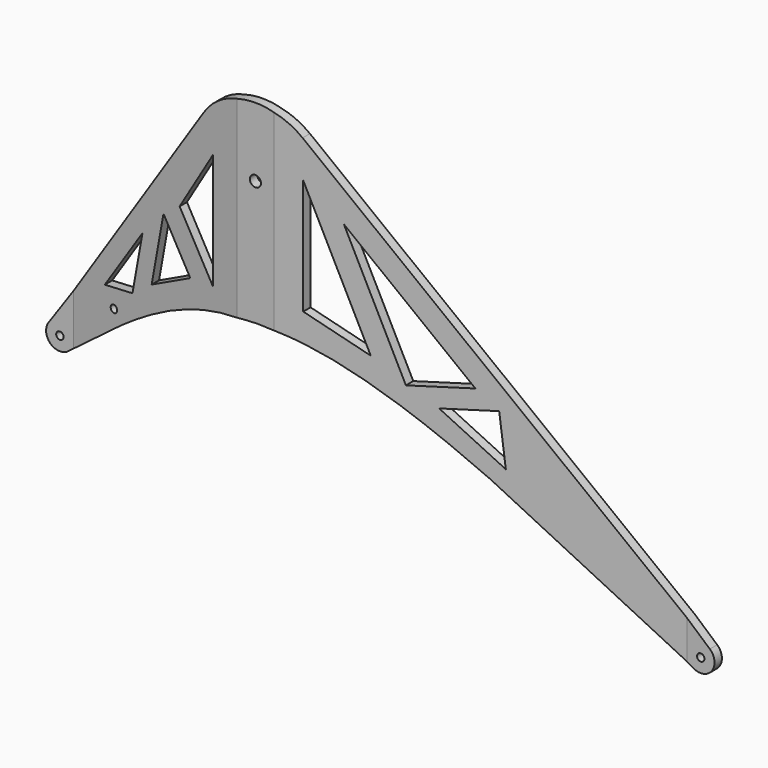
from build123d import *

# Parameters (mm, degrees)
F1_W     = 30
F1_H     = 10
F2_DEPTH = 340
F3_DEPTH = 100
F5_DEPTH = 76
F6_R     = 4
F6_R_2   = 6
F7_DEPTH = 66


with BuildPart() as f2:
    # F1 (on Top) → F2 (new body)
    with BuildSketch(Plane.XY):
        Polygon((0, 0), (-20, 0), (-20, -10), (20, -10), (20, 0), align=None)
        Polygon((-20, -10), (-20, 0), (-223.64854, 33), (-223.64854, 23), align=None)
        with Locations((-238.64854, 28)):
            Rectangle(F1_W, F1_H)
        Polygon((442.00493, 33), (20, 0), (20, -10), (442.00493, 23), align=None)
        with Locations((457.00493, 28)):
            Rectangle(F1_W, F1_H)
    extrude(amount=-F2_DEPTH)

    # F1 (on Top) → F3 (join)
    with BuildSketch(Plane.XY):
        Polygon((0, 0), (-20, 0), (-20, -10), (20, -10), (20, 0), align=None)
        Polygon((-20, -10), (-20, 0), (-223.64854, 33), (-223.64854, 23), align=None)
        with Locations((-238.64854, 28)):
            Rectangle(F1_W, F1_H)
        Polygon((442.00493, 33), (20, 0), (20, -10), (442.00493, 23), align=None)
        with Locations((457.00493, 28)):
            Rectangle(F1_W, F1_H)
    extrude(amount=F3_DEPTH)

    # F4 (on Front) → F5 (intersect, symmetric)
    with BuildSketch(Plane.XZ):
        with BuildLine():
            ThreePointArc((-250.9718022583, -230.0965111685), (-249.006915225, -249.4976876834), (-229.5356153331, -250.563010045))
            ThreePointArc((-229.5356153331, -250.563010045), (-225.2006047987, -245.2933166844), (-223.6485386505, -238.6485386505))
            ThreePointArc((-223.6485386505, -238.6485386505), (-234.1679669301, -224.3333552056), (-250.9718022583, -230.0965111685))
        make_face()
        with BuildLine():
            add(Edge.make_bspline(
                [(-229.5356153331, -250.563010045), (-208.7207010553, -234.6424785008), (-187.0701685552, -217.0301430269), (-164.0481391717, -200.4741451059)],
                knots=[0, 0, 0, 0, 0.1373195068, 0.1373195068, 0.1373195068, 0.1373195068], degree=3))
            Line((-229.5356153331, -250.563010045), (-164.0481391717, -200.4741451059))
        make_face()
        with BuildLine():
            ThreePointArc((-223.6485386505, -238.6485386505), (-225.2006047987, -245.2933166844), (-229.5356153331, -250.563010045))
            add(Edge.make_bspline(
                [(-229.5356153331, -250.563010045), (-208.7207010553, -234.6424785008), (-187.0701685552, -217.0301430269), (-164.0481391717, -200.4741451059)],
                knots=[0, 0, 0, 0, 0.1373195068, 0.1373195068, 0.1373195068, 0.1373195068], degree=3))
            Line((-164.0481391717, -200.4741451059), (0, -75))
            ThreePointArc((0, -75), (-66.4530293795, -34.7706037666), (-61.6163187638, 42.7601363655))
            Line((-61.6163187638, 42.7601363655), (-250.9718022583, -230.0965111685))
            ThreePointArc((-250.9718022583, -230.0965111685), (-234.1679669301, -224.3333552056), (-223.6485386505, -238.6485386505))
        make_face()
        with BuildLine():
            Line((0, -75), (-164.0481391717, -200.4741451059))
            add(Edge.make_bspline(
                [(-164.0481391717, -200.4741451059), (-116.7152354778, -166.4352929221), (-4.1014041633, -103.751655246), (155.4809175381, -168.4276528716), (240.7432263876, -213.1721002441)],
                knots=[0.1373195068, 0.1373195068, 0.1373195068, 0.1373195068, 0.4196460942, 0.7357326781, 0.7357326781, 0.7357326781, 0.7357326781], degree=3))
            Line((240.7432263876, -213.1721002441), (0, -75))
        make_face()
        with BuildLine():
            ThreePointArc((49.3759786376, 56.4536334843), (-9.1833788682, 74.4356470555), (-61.6163187638, 42.7601363655))
            ThreePointArc((-61.6163187638, 42.7601363655), (-66.4530293795, -34.7706037666), (0, -75))
            ThreePointArc((0, -75), (53.033008589, -53.033008589), (75, 0))
            ThreePointArc((75, 0), (68.2942105812, 30.9983999763), (49.3759786376, 56.4536334843))
        make_face()
        with BuildLine():
            ThreePointArc((75, 0), (53.033008589, -53.033008589), (0, -75))
            Line((0, -75), (240.7432263876, -213.1721002441))
            add(Edge.make_bspline(
                [(240.7432263876, -213.1721002441), (312.0276249141, -250.5811390256), (383.9898125383, -295.3870059685), (449.5382273905, -333.0078449167)],
                knots=[0.7357326781, 0.7357326781, 0.7357326781, 0.7357326781, 1, 1, 1, 1], degree=3))
            ThreePointArc((449.5382273905, -333.0078449167), (444.7952538382, -311.2848606652), (466.8801220688, -308.7075678715))
            Line((466.8801220688, -308.7075678715), (49.3759786376, 56.4536334843))
            ThreePointArc((49.3759786376, 56.4536334843), (68.2942105812, 30.9983999763), (75, 0))
        make_face()
        with BuildLine():
            add(Edge.make_bspline(
                [(240.7432263876, -213.1721002441), (312.0276249141, -250.5811390256), (383.9898125383, -295.3870059685), (449.5382273905, -333.0078449167)],
                knots=[0.7357326781, 0.7357326781, 0.7357326781, 0.7357326781, 1, 1, 1, 1], degree=3))
            Line((240.7432263876, -213.1721002441), (449.5382273905, -333.0078449167))
        make_face()
        with BuildLine():
            ThreePointArc((466.8801220688, -308.7075678715), (444.7952538382, -311.2848606652), (449.5382273905, -333.0078449167))
            ThreePointArc((449.5382273905, -333.0078449167), (464.521558007, -332.979057912), (472.0049255088, -319.9982938402))
            ThreePointArc((472.0049255088, -319.9982938402), (470.6637678536, -313.7986143485), (466.8801220688, -308.7075678715))
        make_face()
    extrude(amount=F5_DEPTH, both=True, mode=Mode.INTERSECT)

    # F6 (on face) → F7 (cut, symmetric)
    with BuildSketch(Plane.XZ.offset(10)):
        Polygon((-50, -118.8666767037), (-50, 6.8798678522), (-91.5673471808, -58.5868135927), align=None)
        Polygon((-126.4676634488, -146.9804479722), (-78.2616292159, -121.9207695), (-111.7079214913, -73.417844568), align=None)
        Polygon((-150.4108945671, -164.6469025725), (-137.8857839916, -102.2217094685), (-184.8640607304, -169.9162639715), align=None)
        Polygon((50, 16.0521292518), (50, -109.3419641256), (118.974648416, -131.2328726053), align=None)
        Polygon((225.9725652657, -131.215947327), (91.4881845235, -13.5920175816), (154.9125586599, -149.0252423531), align=None)
        Polygon((250.1992884028, -145.7627206944), (188.8613105429, -161.1354485647), (256.9922346805, -199.3553946004), align=None)
        with Locations((-238.6485386505, -238.6485386505)):
            Circle(F6_R)
        with Locations((457.0049255088, -319.9982938402)):
            Circle(F6_R)
        Circle(F6_R_2)
        with Locations((-173.5450253277, -188.5422087565)):
            Circle(F6_R)
    extrude(amount=F7_DEPTH, both=True, mode=Mode.SUBTRACT)


solid = f2.part
